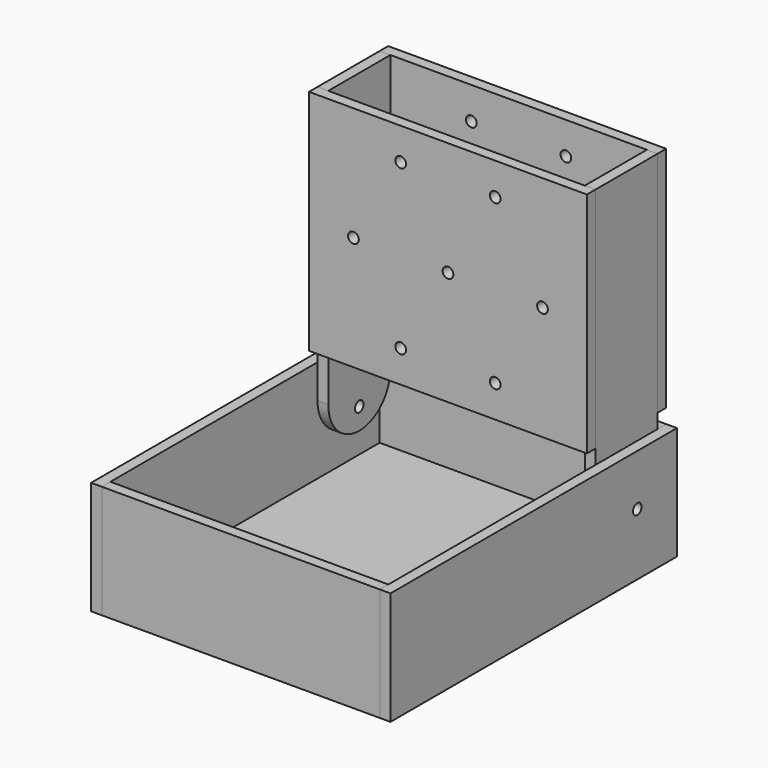
from build123d import *

# Parameters (mm, degrees)
F0_W      = 3.175
F0_H      = 67.547422
F0_W_2    = 76
F0_R      = 1.5875
F1_DEPTH  = 3.175
F2_R      = 1.5875
F3_DEPTH  = 3.175
F6_W      = 106.067394
F6_H      = 33.525
F6_R      = 1.5875
F7_DEPTH  = 3.175
F8_W      = 82.35
F8_H      = 33.525
F9_DEPTH  = 3.175
F12_W     = 82.35
F12_H     = 99.717
F13_DEPTH = 3.175


with BuildPart() as f1:
    # F0 (on Front) → F1 (new body)
    with BuildSketch(Plane.XZ):
        with Locations((39.5875, 0)):
            Rectangle(F0_W, F0_H)
        Rectangle(F0_W_2, F0_H)
        with Locations((-14, -24.248711)):
            Circle(F0_R, mode=Mode.SUBTRACT)
        with Locations((14, -24.248711)):
            Circle(F0_R, mode=Mode.SUBTRACT)
        with Locations((-28, 0)):
            Circle(F0_R, mode=Mode.SUBTRACT)
        with Locations((-14, 24.248711)):
            Circle(F0_R, mode=Mode.SUBTRACT)
        Circle(F0_R, mode=Mode.SUBTRACT)
        with Locations((28, 0)):
            Circle(F0_R, mode=Mode.SUBTRACT)
        with Locations((14, 24.248711)):
            Circle(F0_R, mode=Mode.SUBTRACT)
        with Locations((-39.5875, 0)):
            Rectangle(F0_W, F0_H)
    extrude(amount=F1_DEPTH)


with BuildPart() as f3:
    # F2 (on face) → F3 (new body)
    with BuildSketch(Plane.YZ.offset(41.175)):
        with BuildLine():
            Line((-3.175, -48.064523), (-3.175, 33.773711))
            Line((-3.175, 33.773711), (-26.175, 33.773711))
            Line((-26.175, 33.773711), (-26.175, -48.064523))
            ThreePointArc((-26.175, -48.064523), (-14.675, -59.564523), (-3.175, -48.064523))
        make_face()
        with Locations((-14.675, -53.214523)):
            Circle(F2_R, mode=Mode.SUBTRACT)
        with Locations((-6.525556, -44.913482)):
            Circle(F2_R, mode=Mode.SUBTRACT)
    extrude(amount=-F3_DEPTH)


with BuildPart() as f4_1:
    # F4: instance of F3
    add(f3.part.mirror(Plane.YZ))


with BuildPart() as f5_1:
    # F5: copy of F1
    add(f1.part.moved(Location((0, -26.175, 0))))


with BuildPart() as f7:
    # F6 (on face) → F7 (new body)
    with BuildSketch(Plane.YZ.offset(41.175)):
        with Locations((-53.033697, -54.802023)):
            Rectangle(F6_W, F6_H)
        with Locations((-14.675, -53.214523)):
            Circle(F6_R, mode=Mode.SUBTRACT)
    extrude(amount=F7_DEPTH)


with BuildPart() as f9:
    # F8 (on face) → F9 (new body, through all)
    with BuildSketch(Plane(origin=(0, 0, 0), x_dir=(-1, 0, 0), z_dir=(0, 1, 0))):
        with Locations((0, -54.802023)):
            Rectangle(F8_W, F8_H)
    extrude(amount=-F9_DEPTH)


with BuildPart() as f10_1:
    # F10: copy of F7
    add(f7.part.moved(Location((-85.525, 0, 0))))


with BuildPart() as f11_1:
    # F11: copy of F9
    add(f9.part.moved(Location((0, -102.892, 0))))


with BuildPart() as f13:
    # F12 (on face) → F13 (new body)
    with BuildSketch(Plane(origin=(0, 0, -71.564523), x_dir=(1, 0, 0), z_dir=(0, 0, -1))):
        with Locations((0, 53.0335)):
            Rectangle(F12_W, F12_H)
    extrude(amount=-F13_DEPTH)


solid = Compound([f1.part, f3.part, f4_1.part, f5_1.part, f7.part, f9.part, f10_1.part, f11_1.part, f13.part])
